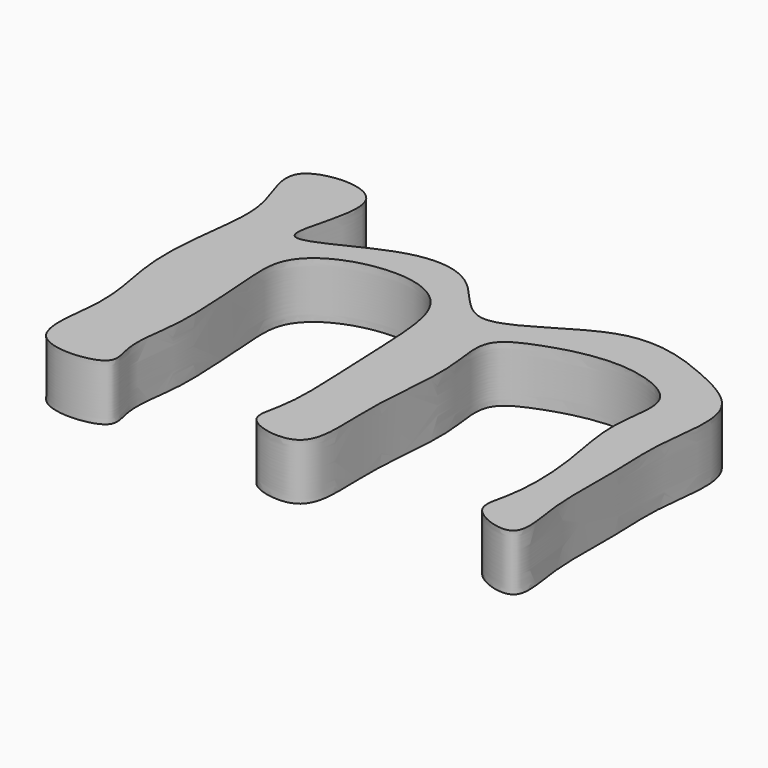
from build123d import *

# Parameters (mm, degrees)
F1_DEPTH = 5


with BuildPart() as f1:
    # F0 (on Top) → F1 (new body)
    with BuildSketch(Plane.XY):
        with BuildLine():
            add(Edge.make_bspline(
                [(-57.2844706476, 32.1384705603), (-56.7877725283, 30.2106774219), (-57.3315780203, 26.529912889), (-58.0047313573, 19.5873354046), (-55.9992489684, 13.5201890426), (-58.3905325317, 5.2186393805), (-49.5785149134, 5.8982229913), (-51.2858808888, 9.1784119265), (-50.3673343145, 13.6444258708), (-50.5472065877, 17.8549706066), (-50.8025063515, 22.1155829635), (-51.1800098197, 26.2384077913), (-47.4474701552, 29.1322860884), (-41.6172173105, 29.7477762315), (-37.9012747037, 27.3382488841), (-37.2710448298, 22.2274118203), (-37.1868495611, 16.6715926895), (-36.6463153626, 9.2437166383), (-38.2433422066, 5.6019074687), (-31.9545151376, 4.4145480258), (-31.9950455084, 9.7892172342), (-32.0858138813, 13.511911552), (-31.6926437611, 17.3814713552), (-31.5388558071, 21.2552246616), (-32.5049232736, 25.4986045459), (-28.9458404744, 27.1654631386), (-25.2771876536, 28.2732292944), (-21.0806347875, 28.4741765727), (-16.0649499504, 26.4129164404), (-17.7886665006, 20.8348029604), (-16.1356115981, 14.8194742913), (-16.0415871617, 8.3791962382), (-17.4850495006, 4.9846807096), (-11.778611954, 2.9969045629), (-12.7999686797, 8.0178504542), (-12.9565860018, 11.6394057452), (-12.8301639112, 16.126537707), (-13.211785461, 20.9991364478), (-11.6864217019, 27.9269251972), (-17.6245736889, 31.0597714851), (-25.6158616717, 33.8211740409), (-34.7299495199, 25.1765734179), (-38.3684031513, 32.4719036822), (-45.0350521573, 33.0920537907), (-55.305099639, 26.0776589073), (-48.7505791381, 38.7020927363), (-60.08787591, 37.9977532922), (-57.7457365322, 33.9287435106), (-57.2844706476, 32.1384705603)],
                knots=[0, 0, 0, 0, 0.0231592718, 0.0484382153, 0.0737975351, 0.098598712, 0.1211998497, 0.1363611534, 0.1572163754, 0.1774314444, 0.1976662328, 0.2165997758, 0.2365736693, 0.2597852786, 0.2789777598, 0.3000975797, 0.3238140895, 0.3505561158, 0.3673175684, 0.3869771432, 0.406889357, 0.4264625186, 0.4453960586, 0.4649692203, 0.4838786896, 0.5015354818, 0.5208195738, 0.5410346494, 0.5613282237, 0.5827695472, 0.6076240042, 0.632382309, 0.6491437615, 0.6677821445, 0.6860306603, 0.7056255314, 0.7258406048, 0.7478694676, 0.7721064872, 0.7954857933, 0.8232886372, 0.8537159885, 0.8766622777, 0.9019714532, 0.9284802036, 0.9547762979, 0.9784928076, 1, 1, 1, 1], degree=3))
        make_face()
    extrude(amount=F1_DEPTH)


solid = f1.part
